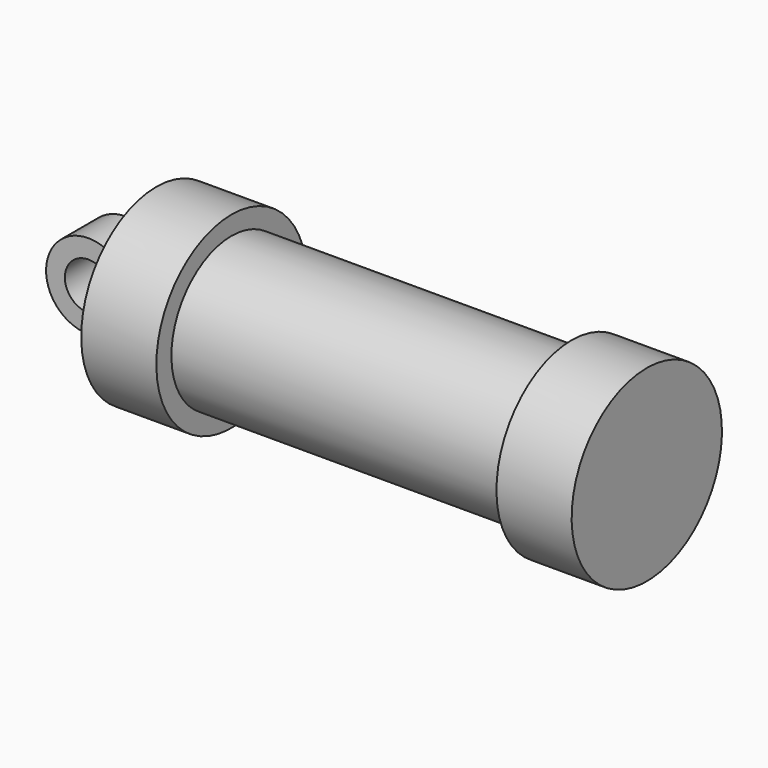
from build123d import *

# Parameters (mm, degrees)
F0_W     = 5.842
F0_H     = 12.7
F0_R     = 3.175
F2_DEPTH = 3.175


with BuildPart() as f1:
    # F0 (on Front) → F1 (revolve)
    with BuildSketch(Plane.XZ):
        with Locations((2.921, 6.35)):
            Rectangle(F0_W, F0_H)
        Polygon((5.842, 12.7), (5.842, 0), (66.294, 0), (66.294, 12.7), (56.134, 12.7), (56.134, 10.16), (10.16, 10.16), (10.16, 12.7), align=None)
    revolve(axis=Axis((33.147, 0, 0), (-1, 0, 0)))


with BuildPart() as f2:
    # F0 (on Front) → F2 (new body, symmetric)
    with BuildSketch(Plane.XZ):
        with BuildLine():
            ThreePointArc((-8.182663, -5.506983), (-3.195791, -4.549339), (-0.9398, 0))
            ThreePointArc((-0.9398, 0), (-4.591961, 5.329721), (-10.88063, 3.847543))
            ThreePointArc((-10.88063, 3.847543), (-12.145978, -1.583727), (-8.182663, -5.506983))
        make_face()
        with Locations((-6.6548, 0)):
            Circle(F0_R, mode=Mode.SUBTRACT)
    extrude(amount=F2_DEPTH, both=True)


solid = Compound([f1.part, f2.part])
